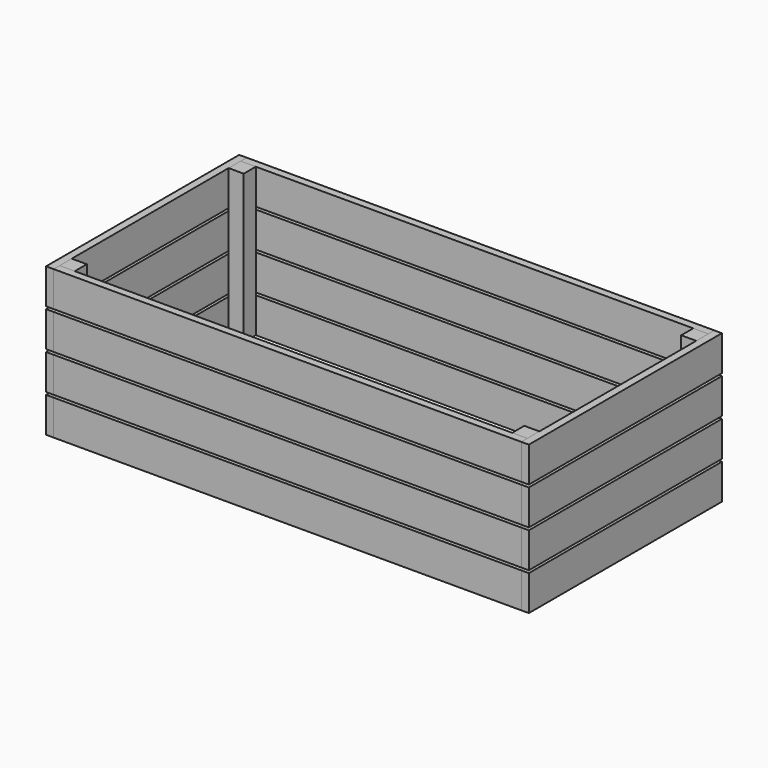
from build123d import *

# Parameters (mm, degrees)
SKETCH_W     = 38.1
SKETCH_H     = 38.1
PAD_DEPTH    = 374.65
SKETCH001_W  = 38.1
SKETCH001_H  = 38.1
PAD001_DEPTH = 374.65
SKETCH002_W  = 38.1
SKETCH002_H  = 38.1
PAD002_DEPTH = 374.65
SKETCH003_W  = 38.1
SKETCH003_H  = 38.1
PAD003_DEPTH = 374.65
SKETCH004_W  = 1181.1
SKETCH004_H  = 88.9
PAD004_DEPTH = 19.05
SKETCH012_W  = 1181.1
SKETCH012_H  = 88.9
PAD012_DEPTH = 19.05
SKETCH013_W  = 1181.1
SKETCH013_H  = 88.9
PAD013_DEPTH = 19.05
SKETCH014_W  = 1181.1
SKETCH014_H  = 88.9
PAD014_DEPTH = 19.05
SKETCH008_W  = 609.6
SKETCH008_H  = 88.9
PAD008_DEPTH = 19.05
SKETCH009_W  = 609.6
SKETCH009_H  = 88.9
PAD009_DEPTH = 19.05
SKETCH010_W  = 609.6
SKETCH010_H  = 88.9
PAD010_DEPTH = 19.05
SKETCH011_W  = 609.6
SKETCH011_H  = 88.9
PAD011_DEPTH = 19.05
SKETCH015_W  = 609.6
SKETCH015_H  = 88.9
PAD015_DEPTH = 19.05
SKETCH016_W  = 609.6
SKETCH016_H  = 88.9
PAD016_DEPTH = 19.05
SKETCH017_W  = 609.6
SKETCH017_H  = 88.9
PAD017_DEPTH = 19.05
SKETCH018_W  = 609.6
SKETCH018_H  = 88.9
PAD018_DEPTH = 19.05
SKETCH019_W  = 1181.1
SKETCH019_H  = 88.9
PAD019_DEPTH = 19.05
SKETCH020_W  = 1181.1
SKETCH020_H  = 88.9
PAD020_DEPTH = 19.05
SKETCH021_W  = 1181.1
SKETCH021_H  = 88.9
PAD021_DEPTH = 19.05
SKETCH022_W  = 1181.1
SKETCH022_H  = 88.9
PAD022_DEPTH = 19.05


with BuildPart() as post1:
    # Sketch → Pad (new body)
    with BuildSketch(Plane.XY):
        with Locations((-571.5, 266.7)):
            Rectangle(SKETCH_W, SKETCH_H)
    extrude(amount=PAD_DEPTH)


with BuildPart() as post2:
    # Sketch001 → Pad001 (new body)
    with BuildSketch(Plane.XY):
        with Locations((571.5, 266.7)):
            Rectangle(SKETCH001_W, SKETCH001_H)
    extrude(amount=PAD001_DEPTH)


with BuildPart() as post3:
    # Sketch002 → Pad002 (new body)
    with BuildSketch(Plane.XY):
        with Locations((-571.5, -266.7)):
            Rectangle(SKETCH002_W, SKETCH002_H)
    extrude(amount=PAD002_DEPTH)


with BuildPart() as post4:
    # Sketch003 → Pad003 (new body)
    with BuildSketch(Plane.XY):
        with Locations((571.5, -266.7)):
            Rectangle(SKETCH003_W, SKETCH003_H)
    extrude(amount=PAD003_DEPTH)


with BuildPart() as panelfront1:
    # Sketch004 → Pad004 (new body)
    with BuildSketch(Plane.XZ.offset(285.75)):
        with Locations((0, 44.45)):
            Rectangle(SKETCH004_W, SKETCH004_H)
    extrude(amount=PAD004_DEPTH)


with BuildPart() as panelfront2:
    # Sketch012 → Pad012 (new body)
    with BuildSketch(Plane.XZ.offset(285.75)):
        with Locations((0, 139.7)):
            Rectangle(SKETCH012_W, SKETCH012_H)
    extrude(amount=PAD012_DEPTH)


with BuildPart() as panelfront3:
    # Sketch013 → Pad013 (new body)
    with BuildSketch(Plane.XZ.offset(285.75)):
        with Locations((0, 234.95)):
            Rectangle(SKETCH013_W, SKETCH013_H)
    extrude(amount=PAD013_DEPTH)


with BuildPart() as panelfront4:
    # Sketch014 → Pad014 (new body)
    with BuildSketch(Plane.XZ.offset(285.75)):
        with Locations((0, 330.2)):
            Rectangle(SKETCH014_W, SKETCH014_H)
    extrude(amount=PAD014_DEPTH)


with BuildPart() as panelright1:
    # Sketch008 → Pad008 (new body)
    with BuildSketch(Plane.YZ.offset(590.55)):
        with Locations((0, 44.45)):
            Rectangle(SKETCH008_W, SKETCH008_H)
    extrude(amount=PAD008_DEPTH)


with BuildPart() as panelright2:
    # Sketch009 → Pad009 (new body)
    with BuildSketch(Plane.YZ.offset(590.55)):
        with Locations((0, 139.7)):
            Rectangle(SKETCH009_W, SKETCH009_H)
    extrude(amount=PAD009_DEPTH)


with BuildPart() as panelright3:
    # Sketch010 → Pad010 (new body)
    with BuildSketch(Plane.YZ.offset(590.55)):
        with Locations((0, 234.95)):
            Rectangle(SKETCH010_W, SKETCH010_H)
    extrude(amount=PAD010_DEPTH)


with BuildPart() as panelright4:
    # Sketch011 → Pad011 (new body)
    with BuildSketch(Plane.YZ.offset(590.55)):
        with Locations((0, 330.2)):
            Rectangle(SKETCH011_W, SKETCH011_H)
    extrude(amount=PAD011_DEPTH)


with BuildPart() as panelleft1:
    # Sketch015 → Pad015 (new body)
    with BuildSketch(Plane.YZ.offset(-590.55)):
        with Locations((0, 44.45)):
            Rectangle(SKETCH015_W, SKETCH015_H)
    extrude(amount=-PAD015_DEPTH)


with BuildPart() as panelleft2:
    # Sketch016 → Pad016 (new body)
    with BuildSketch(Plane.YZ.offset(-590.55)):
        with Locations((0, 139.7)):
            Rectangle(SKETCH016_W, SKETCH016_H)
    extrude(amount=-PAD016_DEPTH)


with BuildPart() as panelleft3:
    # Sketch017 → Pad017 (new body)
    with BuildSketch(Plane.YZ.offset(-590.55)):
        with Locations((0, 234.95)):
            Rectangle(SKETCH017_W, SKETCH017_H)
    extrude(amount=-PAD017_DEPTH)


with BuildPart() as panelleft4:
    # Sketch018 → Pad018 (new body)
    with BuildSketch(Plane.YZ.offset(-590.55)):
        with Locations((0, 330.2)):
            Rectangle(SKETCH018_W, SKETCH018_H)
    extrude(amount=-PAD018_DEPTH)


with BuildPart() as panelrear1:
    # Sketch019 → Pad019 (new body)
    with BuildSketch(Plane.XZ.offset(-285.75)):
        with Locations((0, 44.45)):
            Rectangle(SKETCH019_W, SKETCH019_H)
    extrude(amount=-PAD019_DEPTH)


with BuildPart() as panelrear2:
    # Sketch020 → Pad020 (new body)
    with BuildSketch(Plane.XZ.offset(-285.75)):
        with Locations((0, 139.7)):
            Rectangle(SKETCH020_W, SKETCH020_H)
    extrude(amount=-PAD020_DEPTH)


with BuildPart() as panelrear3:
    # Sketch021 → Pad021 (new body)
    with BuildSketch(Plane.XZ.offset(-285.75)):
        with Locations((0, 234.95)):
            Rectangle(SKETCH021_W, SKETCH021_H)
    extrude(amount=-PAD021_DEPTH)


with BuildPart() as panelrear4:
    # Sketch022 → Pad022 (new body)
    with BuildSketch(Plane.XZ.offset(-285.75)):
        with Locations((0, 330.2)):
            Rectangle(SKETCH022_W, SKETCH022_H)
    extrude(amount=-PAD022_DEPTH)


solid = Compound([post1.part, post2.part, post3.part, post4.part, panelfront1.part, panelfront2.part, panelfront3.part, panelfront4.part, panelright1.part, panelright2.part, panelright3.part, panelright4.part, panelleft1.part, panelleft2.part, panelleft3.part, panelleft4.part, panelrear1.part, panelrear2.part, panelrear3.part, panelrear4.part])
